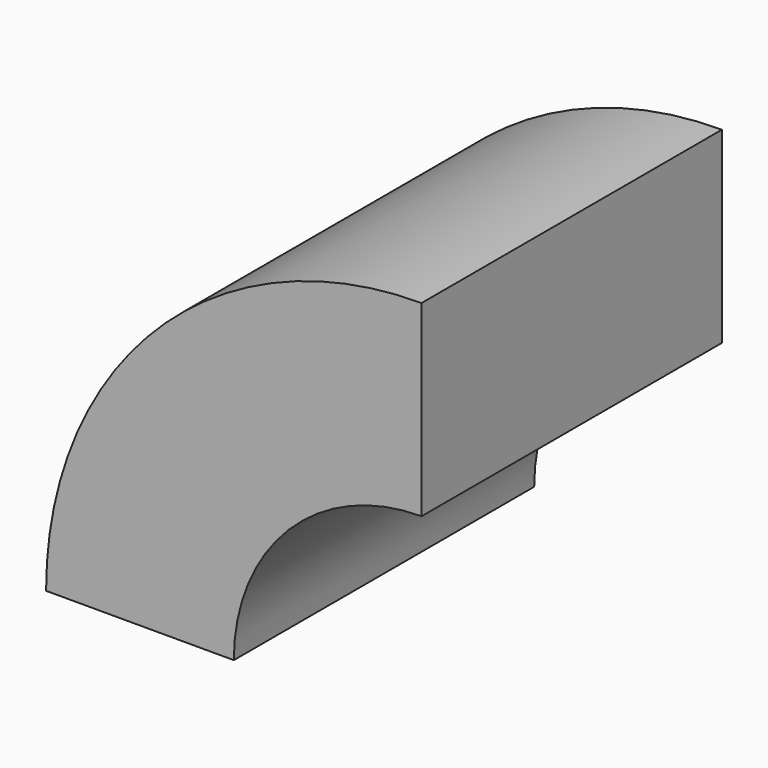
from build123d import *

# Parameters (mm, degrees)
PAD_DEPTH = 50


with BuildPart() as part:
    # Sketch → Pad (new body)
    with BuildSketch(Plane.XZ):
        with BuildLine():
            ThreePointArc((0, 25), (-17.67767, 17.67767), (-25, 0))
            Line((-25, 0), (-50, 0))
            ThreePointArc((0, 50), (-35.355339, 35.355339), (-50, 0))
            Line((0, 25), (0, 50))
        make_face()
    extrude(amount=PAD_DEPTH)


solid = part.part
